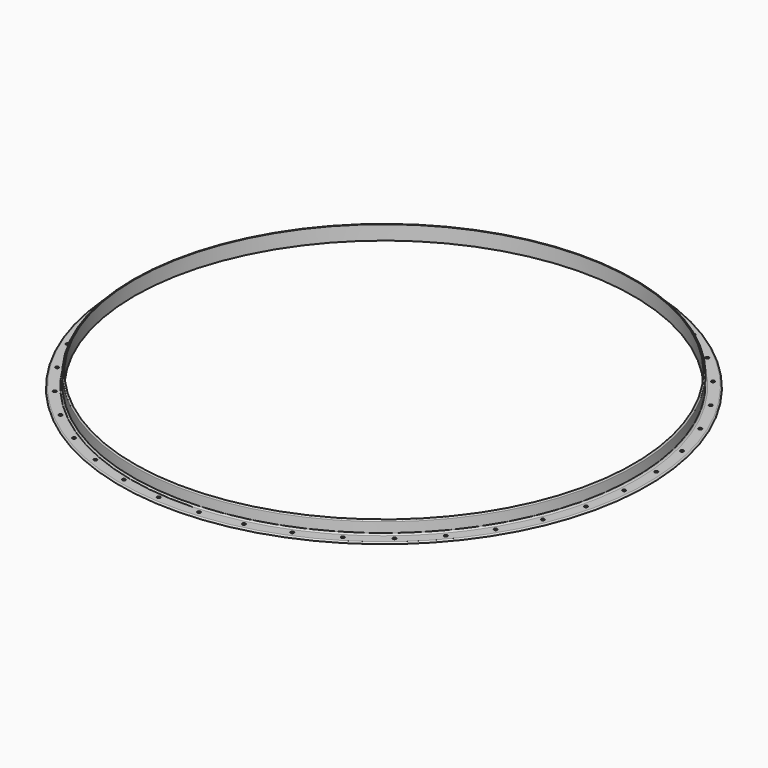
from build123d import *

# Parameters (mm, degrees)
F2_R     = 6.35
F3_DEPTH = 6.351


with BuildPart() as f1:
    # F0 (on Front) → F1 (revolve)
    with BuildSketch(Plane.XZ):
        with BuildLine():
            Line((-1004.8875, 0), (-1044.575, 0))
            ThreePointArc((-1044.575, 0), (-1047.942596, -1.394904), (-1049.3375, -4.7625))
            Line((-1049.3375, -4.7625), (-1049.3375, -6.35))
            Line((-1049.3375, -6.35), (-992.1875, -6.35))
            Line((-992.1875, -6.35), (-992.1875, 50.8))
            Line((-992.1875, 50.8), (-993.775, 50.8))
            ThreePointArc((-993.775, 50.8), (-997.142596, 49.405096), (-998.5375, 46.0375))
            Line((-998.5375, 46.0375), (-998.5375, 6.35))
            ThreePointArc((-998.5375, 6.35), (-1000.397372, 1.859872), (-1004.8875, 0))
        make_face()
    revolve(axis=Axis((0, 0, 25.4), (0, 0, 1)))

    # F2 (on Top) → F3 (cut, through all)
    with BuildSketch(Plane.XY):
        with Locations((1019.198436, 80.212657)):
            Circle(F2_R)
        with Locations((994.102388, 238.662868)):
            Circle(F2_R)
        with Locations((944.52824, 391.236407)):
            Circle(F2_R)
        with Locations((871.696672, 534.176408)):
            Circle(F2_R)
        with Locations((777.401039, 663.963212)):
            Circle(F2_R)
        with Locations((663.963212, 777.401039)):
            Circle(F2_R)
        with Locations((534.176408, 871.696672)):
            Circle(F2_R)
        with Locations((391.236407, 944.52824)):
            Circle(F2_R)
        with Locations((238.662868, 994.102388)):
            Circle(F2_R)
        with Locations((80.212657, 1019.198436)):
            Circle(F2_R)
        with Locations((-80.212657, 1019.198436)):
            Circle(F2_R)
        with Locations((-238.662868, 994.102388)):
            Circle(F2_R)
        with Locations((-391.236407, 944.52824)):
            Circle(F2_R)
        with Locations((-534.176408, 871.696672)):
            Circle(F2_R)
        with Locations((-663.963212, 777.401039)):
            Circle(F2_R)
        with Locations((-777.401039, 663.963212)):
            Circle(F2_R)
        with Locations((-871.696672, 534.176408)):
            Circle(F2_R)
        with Locations((-944.52824, 391.236407)):
            Circle(F2_R)
        with Locations((-994.102388, 238.662868)):
            Circle(F2_R)
        with Locations((-1019.198436, 80.212657)):
            Circle(F2_R)
        with Locations((-1019.198436, -80.212657)):
            Circle(F2_R)
        with Locations((-994.102388, -238.662868)):
            Circle(F2_R)
        with Locations((-944.52824, -391.236407)):
            Circle(F2_R)
        with Locations((-871.696672, -534.176408)):
            Circle(F2_R)
        with Locations((-777.401039, -663.963212)):
            Circle(F2_R)
        with Locations((-663.963212, -777.401039)):
            Circle(F2_R)
        with Locations((-534.176408, -871.696672)):
            Circle(F2_R)
        with Locations((-391.236407, -944.52824)):
            Circle(F2_R)
        with Locations((-238.662868, -994.102388)):
            Circle(F2_R)
        with Locations((-80.212657, -1019.198436)):
            Circle(F2_R)
        with Locations((80.212657, -1019.198436)):
            Circle(F2_R)
        with Locations((238.662868, -994.102388)):
            Circle(F2_R)
        with Locations((391.236407, -944.52824)):
            Circle(F2_R)
        with Locations((534.176408, -871.696672)):
            Circle(F2_R)
        with Locations((663.963212, -777.401039)):
            Circle(F2_R)
        with Locations((777.401039, -663.963212)):
            Circle(F2_R)
        with Locations((871.696672, -534.176408)):
            Circle(F2_R)
        with Locations((944.52824, -391.236407)):
            Circle(F2_R)
        with Locations((994.102388, -238.662868)):
            Circle(F2_R)
        with Locations((1019.198436, -80.212657)):
            Circle(F2_R)
    extrude(amount=-F3_DEPTH, mode=Mode.SUBTRACT)


solid = f1.part
